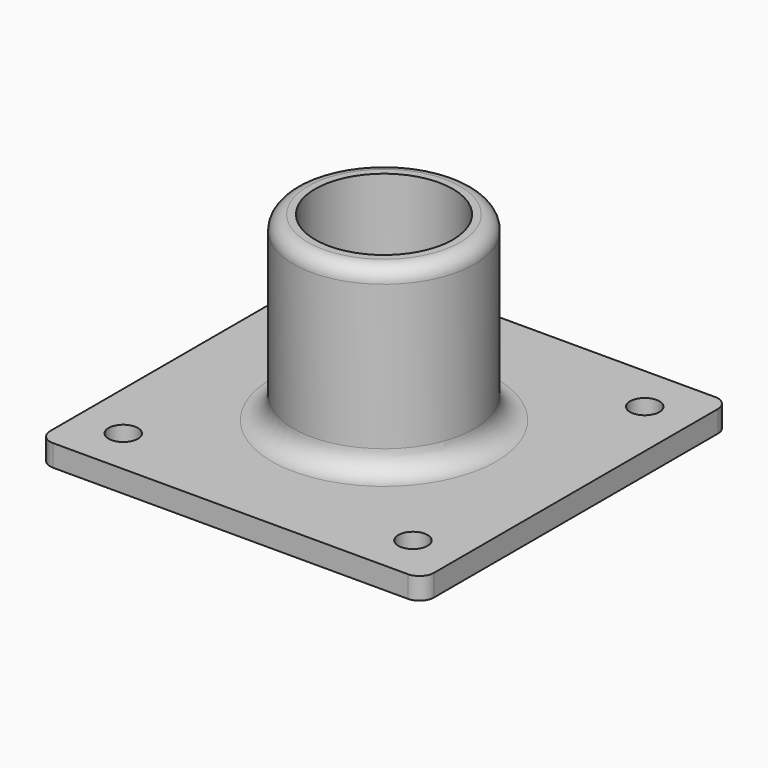
from build123d import *

# Parameters (mm, degrees)
F0_W     = 53
F0_H     = 53
F0_R     = 2.025
F0_R_2   = 12.5
F0_R_3   = 9.5
F1_DEPTH = 3
F2_DEPTH = 28
F3_R     = 2
F4_R     = 3
F5_R     = 2


with BuildPart() as f1:
    # F0 (on Top) → F1 (new body)
    with BuildSketch(Plane.XY):
        Rectangle(F0_W, F0_H)
        with Locations((-20, -20)):
            Circle(F0_R, mode=Mode.SUBTRACT)
        with Locations((20, -20)):
            Circle(F0_R, mode=Mode.SUBTRACT)
        with Locations((-20, 20)):
            Circle(F0_R, mode=Mode.SUBTRACT)
        Circle(F0_R_2, mode=Mode.SUBTRACT)
        with Locations((20, 20)):
            Circle(F0_R, mode=Mode.SUBTRACT)
        Circle(F0_R_2)
        Circle(F0_R_3, mode=Mode.SUBTRACT)
    extrude(amount=F1_DEPTH)

    # F0 (on Top) → F2 (join)
    with BuildSketch(Plane.XY):
        Circle(F0_R_2)
        Circle(F0_R_3, mode=Mode.SUBTRACT)
    extrude(amount=F2_DEPTH)

    # F3
    f3_edges = [f1.edges().sort_by_distance(p)[0] for p in [
        (-12.5, 0, 28),
    ]]
    fillet(f3_edges, radius=F3_R)

    # F4
    f4_edges = [f1.edges().sort_by_distance(p)[0] for p in [
        (-12.5, 0, 3),
    ]]
    fillet(f4_edges, radius=F4_R)

    # F5
    f5_edges = [f1.edges().sort_by_distance(p)[0] for p in [
        (-26.5, -26.5, 1.5),
        (26.5, -26.5, 1.5),
        (26.5, 26.5, 1.5),
        (-26.5, 26.5, 1.5),
    ]]
    fillet(f5_edges, radius=F5_R)


solid = f1.part
